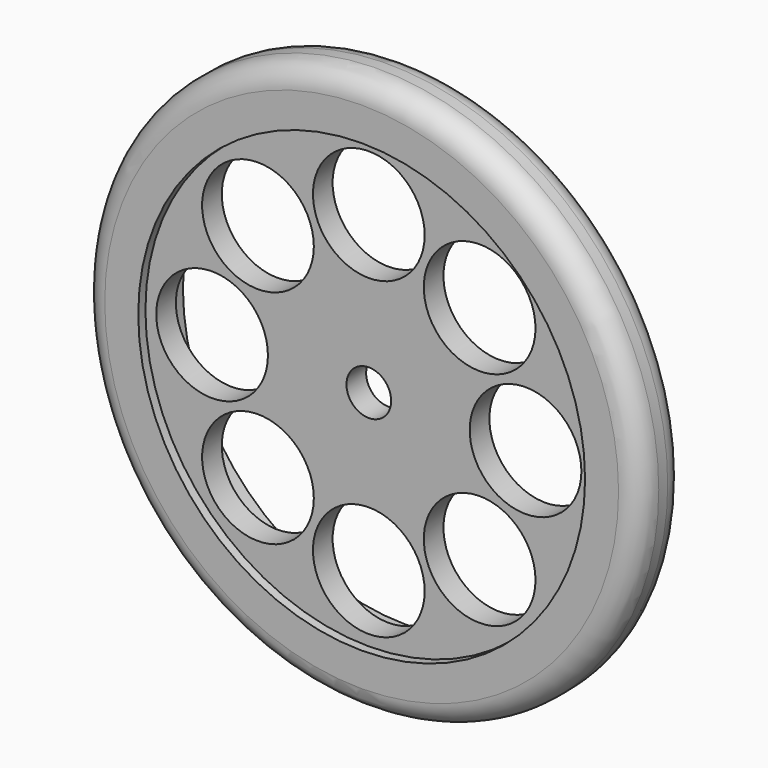
from build123d import *

# Parameters (mm, degrees)
F0_R     = 15.875
F1_DEPTH = 1.5875
F2_R     = 12.7
F3_DEPTH = 0.508
F4_R     = 12.7
F5_DEPTH = 1.27
F6_R     = 1.27
F7_DEPTH = 2.668
F8_R     = 3.175
F9_DEPTH = 2.668
F10_R    = 1.27


with BuildPart() as f1:
    # F0 (on Front) → F1 (new body, symmetric)
    with BuildSketch(Plane.XZ):
        Circle(F0_R)
    extrude(amount=F1_DEPTH, both=True)

    # F2 (on face) → F3 (cut)
    with BuildSketch(Plane.XZ.offset(1.5875)):
        Circle(F2_R)
    extrude(amount=-F3_DEPTH, mode=Mode.SUBTRACT)

    # F4 (on face) → F5 (cut)
    with BuildSketch(Plane(origin=(0, 1.5875, 0), x_dir=(-1, 0, 0), z_dir=(0, 1, 0))):
        Circle(F4_R)
    extrude(amount=-F5_DEPTH, mode=Mode.SUBTRACT)

    # F6 (on face) → F7 (cut, through all)
    with BuildSketch(Plane.XZ.offset(1.0795)):
        Circle(F6_R)
    extrude(amount=-F7_DEPTH, mode=Mode.SUBTRACT)

    # F8 (on face) → F9 (cut, through all)
    with BuildSketch(Plane.XZ.offset(1.0795)):
        with Locations((0, 8.9109085647)):
            Circle(F8_R)
        with Locations((-6.3009638726, 6.3009638726)):
            Circle(F8_R)
        with Locations((-8.9109085647, 0)):
            Circle(F8_R)
        with Locations((-6.3009638726, -6.3009638726)):
            Circle(F8_R)
        with Locations((0, -8.9109085647)):
            Circle(F8_R)
        with Locations((6.3009638726, -6.3009638726)):
            Circle(F8_R)
        with Locations((8.9109085647, 0)):
            Circle(F8_R)
        with Locations((6.3009638726, 6.3009638726)):
            Circle(F8_R)
    extrude(amount=-F9_DEPTH, mode=Mode.SUBTRACT)

    # F10
    f10_edges = [f1.edges().sort_by_distance(p)[0] for p in [
        (-15.875, -1.5875, 0),
        (-15.875, 1.5875, 0),
        (15.875, 0, 0),
    ]]
    fillet(f10_edges, radius=F10_R)


solid = f1.part
